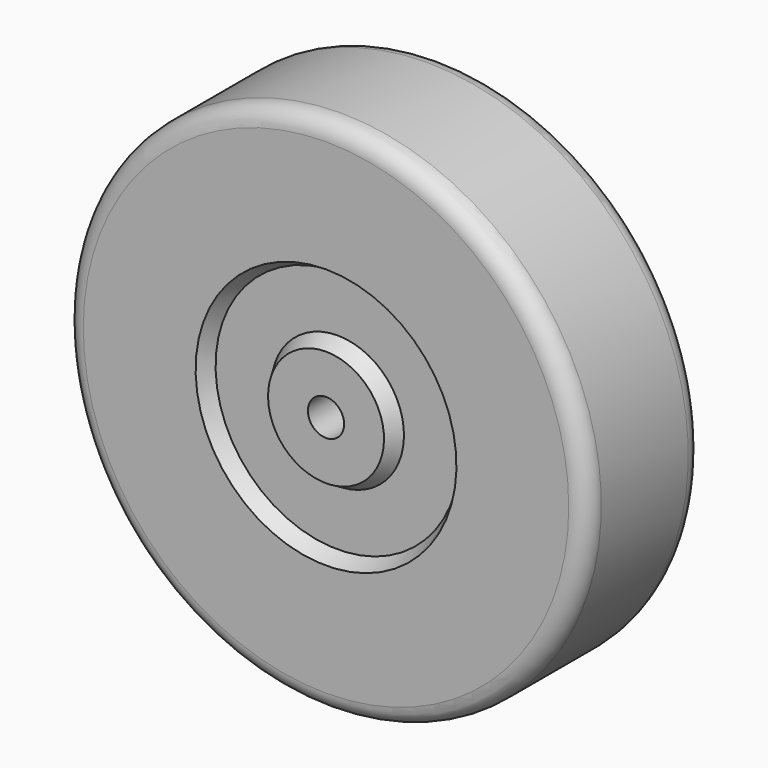
from build123d import *


with BuildPart() as f1:
    # F0 (on Right) → F1 (revolve)
    with BuildSketch(Plane.YZ):
        with BuildLine():
            Line((-12.7, 3.175), (12.7, 3.175))
            Line((12.7, 3.175), (12.7, 10.16))
            Line((12.7, 10.16), (10.16, 11.62647))
            Line((10.16, 11.62647), (10.16, 21.39353))
            Line((10.16, 21.39353), (12.7, 22.86))
            Line((12.7, 22.86), (12.7, 42.545))
            ThreePointArc((12.7, 42.545), (11.770064, 44.790064), (9.525, 45.72))
            Line((9.525, 45.72), (-9.525, 45.72))
            ThreePointArc((-9.525, 45.72), (-11.770064, 44.790064), (-12.7, 42.545))
            Line((-12.7, 42.545), (-12.7, 22.86))
            Line((-12.7, 22.86), (-10.16, 21.39353))
            Line((-10.16, 21.39353), (-10.16, 11.62647))
            Line((-10.16, 11.62647), (-12.7, 10.16))
            Line((-12.7, 10.16), (-12.7, 3.175))
        make_face()
    revolve(axis=Axis((0, -22.93878, 0), (0, -1, 0)))


with BuildPart() as f2_1:
    # F2: copy of F1
    add(f1.part)


solid = f2_1.part
